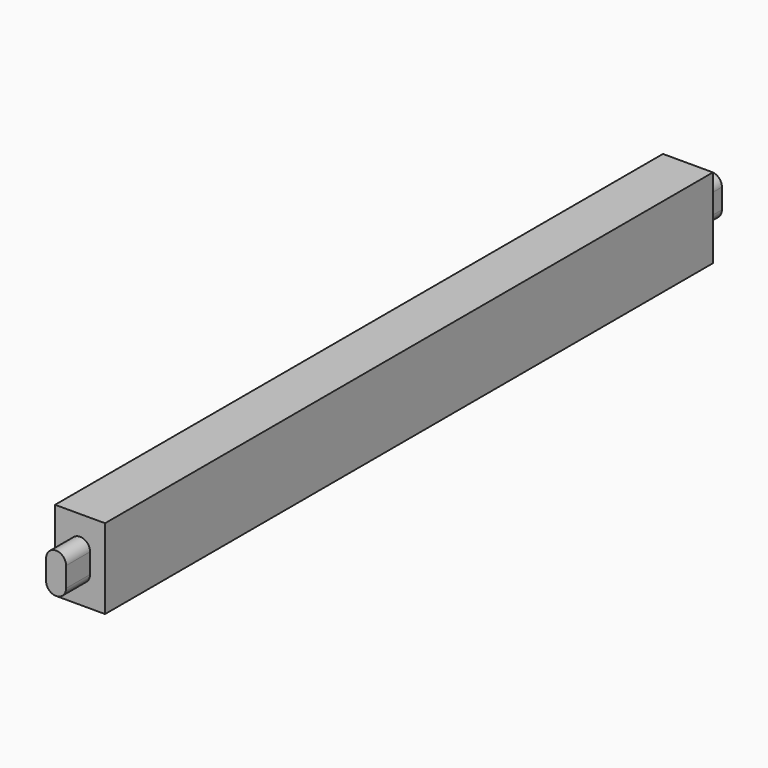
from build123d import *

# Parameters (mm, degrees)
F0_W     = 31.75
F0_H     = 50.8
F1_DEPTH = 482.6
F3_DEPTH = 19.05
F5_DEPTH = 19.05


with BuildPart() as f1:
    # F0 (on Front) → F1 (new body)
    with BuildSketch(Plane.XZ):
        Rectangle(F0_W, F0_H)
    extrude(amount=F1_DEPTH)

    # F2 (on face) → F3 (join)
    with BuildSketch(Plane(origin=(0, 0, 0), x_dir=(-1, 0, 0), z_dir=(0, 1, 0))):
        with BuildLine():
            Line((-6.35, 6.35), (-6.35, -6.35))
            ThreePointArc((-6.35, -6.35), (0, -12.7), (6.35, -6.35))
            Line((6.35, -6.35), (6.35, 6.35))
            ThreePointArc((6.35, 6.35), (0, 12.7), (-6.35, 6.35))
        make_face()
    extrude(amount=F3_DEPTH)

    # F4 (on face) → F5 (join)
    with BuildSketch(Plane.XZ.offset(482.6)):
        with BuildLine():
            Line((-6.35, 6.35), (-6.35, -6.35))
            ThreePointArc((-6.35, -6.35), (0, -12.7), (6.35, -6.35))
            Line((6.35, -6.35), (6.35, 6.35))
            ThreePointArc((6.35, 6.35), (0, 12.7), (-6.35, 6.35))
        make_face()
    extrude(amount=F5_DEPTH)


solid = f1.part
